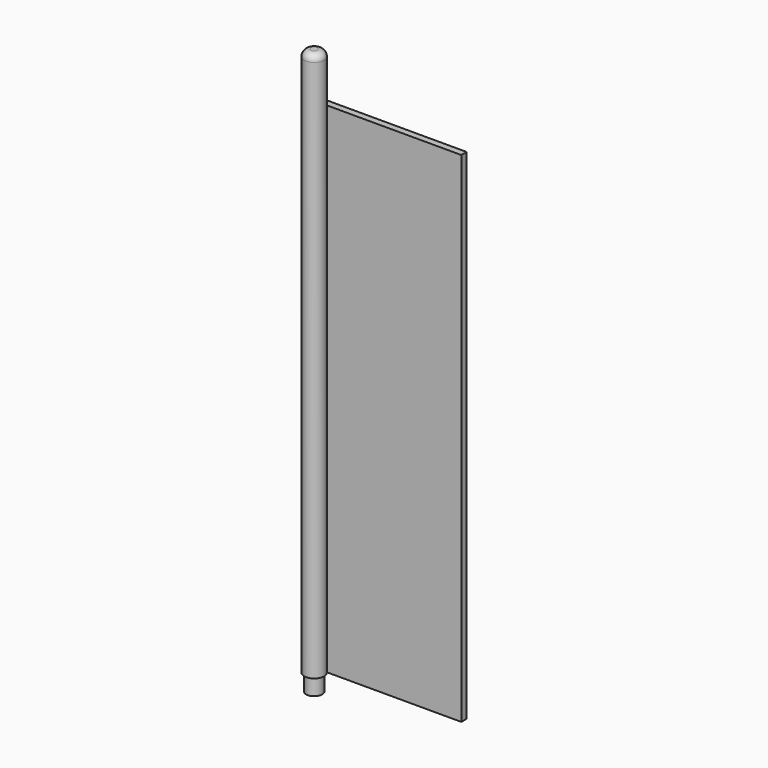
from build123d import *

# Parameters (mm, degrees)
F0_R     = 1.5
F0_R_2   = 1.2
F0_R_3   = 1
F1_DEPTH = 85
F2_DEPTH = 2.5
F3_DEPTH = 4
F4_R     = 1
F6_START = -1
F5_W     = 21.3047601283
F5_H     = 75
F6_DEPTH = 1


with BuildPart() as f1:
    # F0 (on Top) → F1 (new body)
    with BuildSketch(Plane.XY):
        Circle(F0_R)
        Circle(F0_R_2, mode=Mode.SUBTRACT)
        Circle(F0_R_2)
        Circle(F0_R_3, mode=Mode.SUBTRACT)
        Circle(F0_R_3)
    extrude(amount=F1_DEPTH)

    # F0 (on Top) → F2 (cut)
    with BuildSketch(Plane.XY):
        Circle(F0_R)
        Circle(F0_R_2, mode=Mode.SUBTRACT)
    extrude(amount=F2_DEPTH, mode=Mode.SUBTRACT)

    # F0 (on Top) → F3 (cut)
    with BuildSketch(Plane.XY):
        Circle(F0_R_3)
    extrude(amount=F3_DEPTH, mode=Mode.SUBTRACT)

    # F4
    f4_edges = [f1.edges().sort_by_distance(p)[0] for p in [
        (-1.5, 0, 85),
    ]]
    fillet(f4_edges, radius=F4_R)

    # F5 (on Front) → F6 (join)
    with BuildSketch(Plane.XZ.offset(F6_START)):
        with Locations((10.6523800641, 40)):
            Rectangle(F5_W, F5_H)
    extrude(amount=-F6_DEPTH)


solid = f1.part
